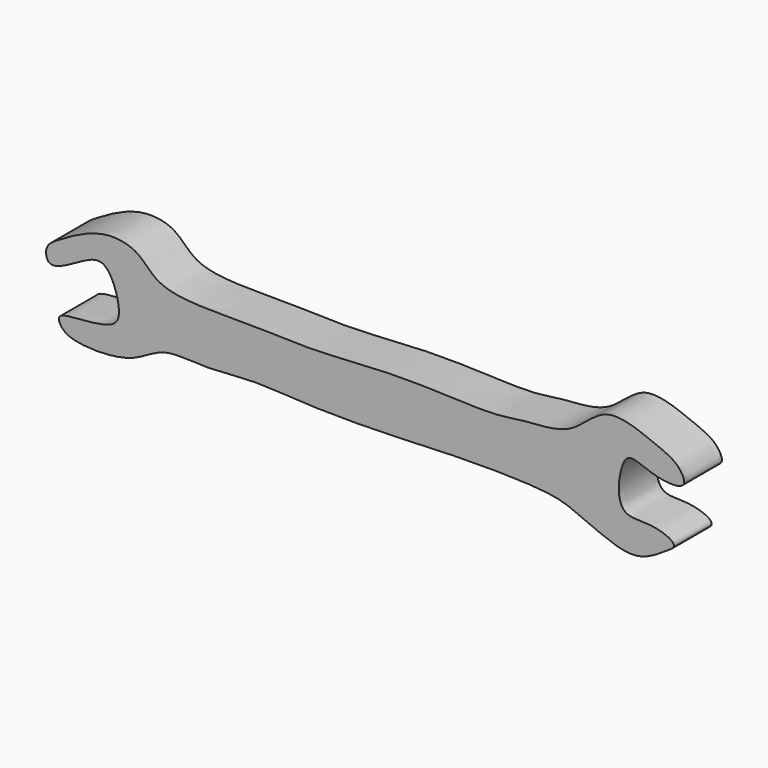
from build123d import *

# Parameters (mm, degrees)
F1_DEPTH = 12.7


with BuildPart() as f1:
    # F0 (on Front) → F1 (new body)
    with BuildSketch(Plane.XZ):
        with BuildLine():
            add(Edge.make_bspline(
                [(-80.4797261953, 6.1064385809), (-78.6957575235, 7.2083260957), (-74.2006796696, 9.8273403765), (-66.8854002043, 12.4055500117), (-58.5961459492, 11.0444339349), (-54.0709861413, 4.498820332), (-45.0298207542, 3.0560442828), (-35.8525840576, 2.9293775809), (-27.9475184406, 3.0872629011), (-14.1346832779, 2.4836355372), (-4.9093991163, 2.942347874), (7.9678780157, 3.7343155603), (19.3006817718, 3.758446698), (37.4908612065, 2.748209775), (45.021601744, 4.562051183), (58.2951305225, 4.5179298919), (66.4018442642, 15.8934988479), (79.5776346377, 10.4020824544), (86.4670016207, 7.838875759), (89.4867241206, 1.4870444753), (79.1050886894, 2.3178529139), (72.4341129232, 6.4196303991), (70.5557679052, -0.2745939359), (70.126336049, -4.6525382673), (71.7652078975, -9.962839669), (79.5424589312, -8.6754943305), (86.8171860305, -11.8685830326), (82.5385534288, -14.4864856136), (76.1204636816, -18.7894294338), (68.1638614697, -17.0895585995), (58.8426149526, -12.7251845666), (51.4797107756, -10.0165510343), (24.9445521278, -9.9792966951), (9.476396021, -10.9428939453), (-12.8771005567, -11.1487502946), (-27.5645863001, -9.6363395594), (-40.4195356512, -11.3868256314), (-52.6034646882, -9.6277918037), (-60.3417405167, -17.045216763), (-76.4768284663, -16.7884646301), (-79.5550118879, -14.0100809943), (-80.7264062013, -10.8998738801), (-73.1801391315, -10.5695977986), (-65.4273418966, -9.6340709887), (-62.8705437889, -5.7004594059), (-66.7236602965, 6.5921926731), (-73.8094282255, 3.6478306409), (-82.9691773417, -2.2233704156), (-83.9349647064, 3.8896522498), (-81.8118875526, 5.283614733), (-80.4797261953, 6.1064385809)],
                knots=[0, 0, 0, 0, 0.0189136974, 0.0387078595, 0.0583092027, 0.0774720555, 0.0983800313, 0.1197053316, 0.1398914951, 0.1658548042, 0.1879023807, 0.2126415178, 0.2373644165, 0.2669919682, 0.2872449842, 0.3118533079, 0.336345436, 0.3613244103, 0.3811422725, 0.3952220947, 0.4154082512, 0.433801729, 0.4496870815, 0.465289213, 0.4797897863, 0.4992593436, 0.5164190937, 0.5288749551, 0.548508825, 0.5683738701, 0.5905520604, 0.6107232777, 0.6463581976, 0.6757273825, 0.7086119132, 0.7360514049, 0.7614153656, 0.7851729404, 0.8079511605, 0.8353817279, 0.8492130522, 0.8589768211, 0.8768557015, 0.8968449, 0.9108582558, 0.9336830941, 0.9514862835, 0.9727941481, 0.9858763793, 1, 1, 1, 1], degree=3))
        make_face()
    extrude(amount=F1_DEPTH)


solid = f1.part
